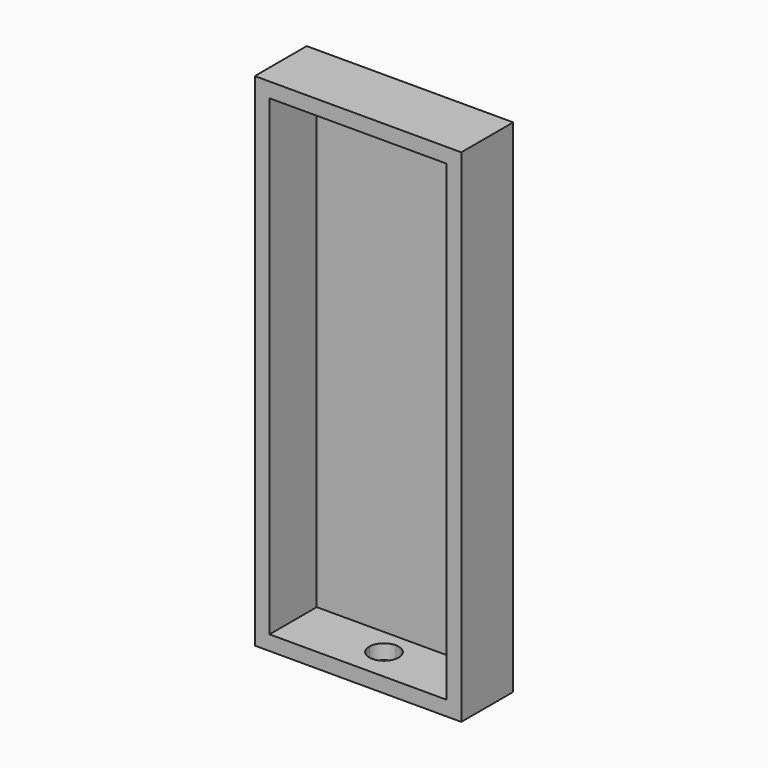
from build123d import *

# Parameters (mm, degrees)
F0_W     = 6.35
F0_H     = 6.35
F1_DEPTH = 27.94
F2_W     = 88.9
F2_H     = 2.54
F3_DEPTH = 209.55
F5_DEPTH = 25.4


with BuildPart() as f1:
    # F0 (on Front) → F1 (new body)
    with BuildSketch(Plane.XZ):
        Polygon((-90.272094512, -40.0971807539), (-90.272094512, 163.1028192461), (-96.622094512, 163.1028192461), (-96.622094512, -46.4471807539), (-14.072094512, -46.4471807539), (-14.072094512, -40.0971807539), align=None)
        with Locations((-93.447094512, 166.2778192461)):
            Rectangle(F0_W, F0_H)
        Polygon((-90.272094512, 169.4528192461), (-90.272094512, 163.1028192461), (-14.072094512, 163.1028192461), (-14.072094512, -40.0971807539), (-7.722094512, -40.0971807539), (-7.722094512, 169.4528192461), align=None)
        with Locations((-10.897094512, -43.2721807539)):
            Rectangle(F0_W, F0_H)
    extrude(amount=F1_DEPTH)

    # F2 (on face) → F3 (join)
    with BuildSketch(Plane(origin=(0, 0, -46.4471807539), x_dir=(1, 0, 0), z_dir=(0, 0, -1))):
        with Locations((-52.172094512, 1.27)):
            Rectangle(F2_W, F2_H)
    extrude(amount=-F3_DEPTH)

    # F4 (on face) → F5 (cut)
    with BuildSketch(Plane(origin=(0, 0, -46.4471807539), x_dir=(1, 0, 0), z_dir=(0, 0, -1))):
        with BuildLine():
            Line((-58.522094512, 13.97), (-52.172094512, 13.97))
            Line((-52.172094512, 13.97), (-52.172094512, 20.32))
            ThreePointArc((-52.172094512, 20.32), (-56.6622225725, 18.4601280605), (-58.522094512, 13.97))
        make_face()
        with BuildLine():
            Line((-52.172094512, 13.97), (-45.822094512, 13.97))
            ThreePointArc((-45.822094512, 13.97), (-47.6819664515, 18.4601280605), (-52.172094512, 20.32))
            Line((-52.172094512, 20.32), (-52.172094512, 13.97))
        make_face()
        with BuildLine():
            ThreePointArc((-52.172094512, 7.62), (-47.6819664515, 9.4798719395), (-45.822094512, 13.97))
            Line((-45.822094512, 13.97), (-52.172094512, 13.97))
            Line((-52.172094512, 13.97), (-52.172094512, 7.62))
        make_face()
        with BuildLine():
            Line((-52.172094512, 7.62), (-52.172094512, 13.97))
            Line((-52.172094512, 13.97), (-58.522094512, 13.97))
            ThreePointArc((-58.522094512, 13.97), (-56.6622225725, 9.4798719395), (-52.172094512, 7.62))
        make_face()
    extrude(amount=-F5_DEPTH, mode=Mode.SUBTRACT)


solid = f1.part
